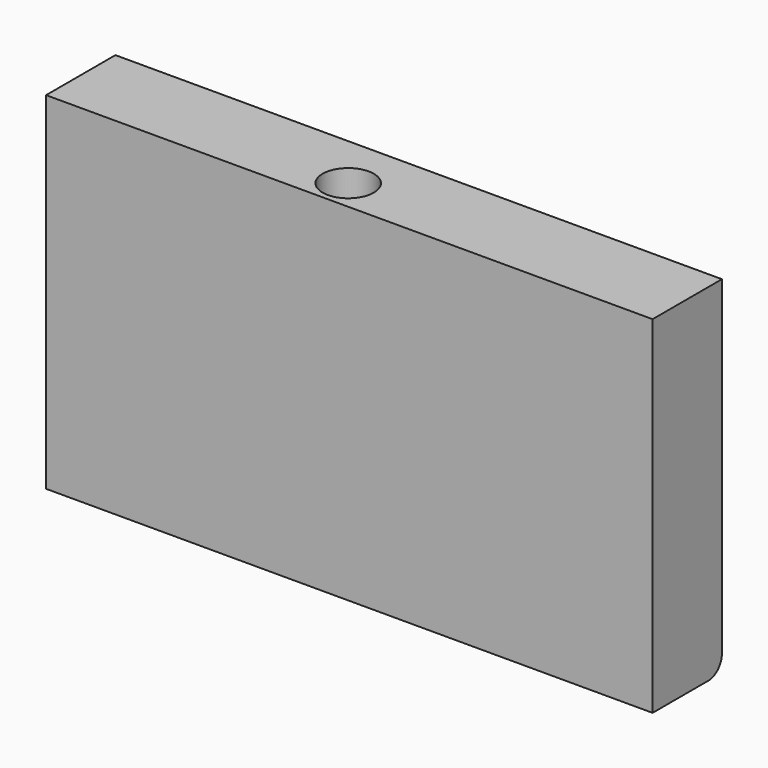
from build123d import *

# Parameters (mm, degrees)
F0_W     = 177.8
F0_H     = 101.6
F1_DEPTH = 25.4
F2_R     = 7.5
F3_DEPTH = 150
F4_R     = 5


with BuildPart() as f1:
    # F0 (on Front) → F1 (new body)
    with BuildSketch(Plane.XZ):
        with Locations((-51.646665, 27.939998)):
            Rectangle(F0_W, F0_H)
    extrude(amount=F1_DEPTH)

    # F2 (on face) → F3 (cut)
    with BuildSketch(Plane.XY.offset(78.739998)):
        with Locations((-59.266985, -16.284161)):
            Circle(F2_R)
    extrude(amount=-F3_DEPTH, mode=Mode.SUBTRACT)

    # F4
    f4_edges = [f1.edges().sort_by_distance(p)[0] for p in [
        (-51.646665, 0, -22.860002),
    ]]
    fillet(f4_edges, radius=F4_R)


solid = f1.part
